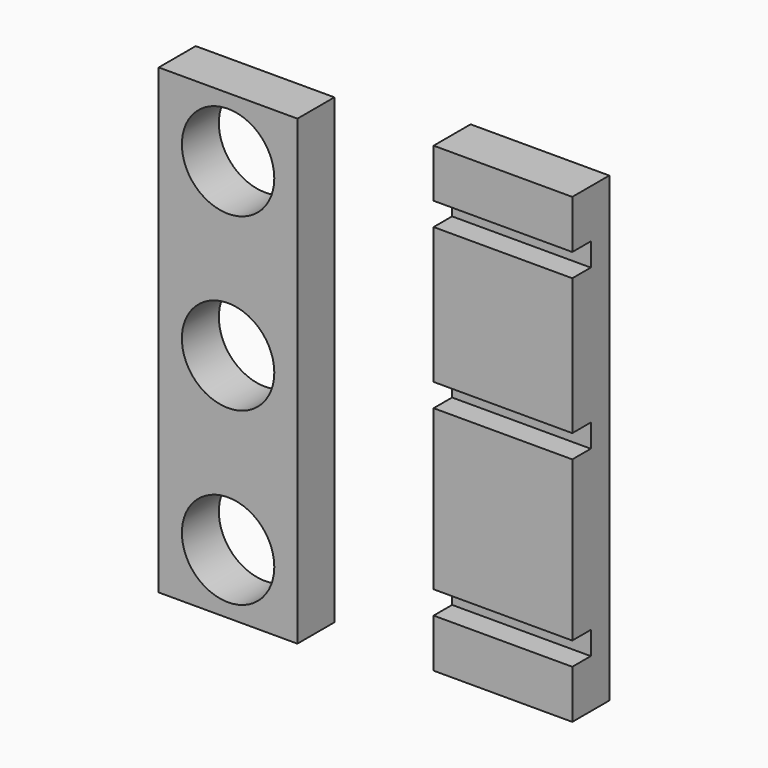
from build123d import *

# Parameters (mm, degrees)
F0_W     = 7.62
F0_H     = 25.4
F0_R     = 2.54
F1_DEPTH = 2.54
F2_W     = 7.62
F2_H     = 2.667
F2_H_2   = 8.128
F2_H_3   = 1.27
F3_DEPTH = 2.54
F4_W     = 7.62
F4_H     = 1.27
F5_DEPTH = 1.27
F6_DEPTH = 1.27
F7_DEPTH = 1.27


with BuildPart() as f1:
    # F0 (on Front) → F1 (new body)
    with BuildSketch(Plane.XZ):
        with Locations((-37.619725, 35.832207)):
            Rectangle(F0_W, F0_H)
        with Locations((-37.619725, 35.832207)):
            Circle(F0_R, mode=Mode.SUBTRACT)
        with Locations((-37.619725, 26.434207)):
            Circle(F0_R, mode=Mode.SUBTRACT)
        with Locations((-37.619725, 45.230207)):
            Circle(F0_R, mode=Mode.SUBTRACT)
    extrude(amount=F1_DEPTH)


with BuildPart() as f3:
    # F2 (on Front) → F3 (new body)
    with BuildSketch(Plane.XZ):
        with Locations((-22.514881, 48.326226)):
            Rectangle(F2_W, F2_H)
        with Locations((-22.514881, 41.658726)):
            Rectangle(F2_W, F2_H_2)
        with Locations((-22.514881, 46.357726)):
            Rectangle(F2_W, F2_H_3)
        with Locations((-22.514881, 36.959726)):
            Rectangle(F2_W, F2_H_3)
        with Locations((-22.514881, 32.260726)):
            Rectangle(F2_W, F2_H_2)
        with Locations((-22.514881, 27.561726)):
            Rectangle(F2_W, F2_H_3)
        with Locations((-22.514881, 25.593226)):
            Rectangle(F2_W, F2_H)
    extrude(amount=F3_DEPTH)

    # F4 (on face) → F5 (cut)
    with BuildSketch(Plane.XZ.offset(2.54)):
        with Locations((-22.514881, 46.357726)):
            Rectangle(F4_W, F4_H)
    extrude(amount=-F5_DEPTH, mode=Mode.SUBTRACT)

    # F4 (on face) → F6 (cut)
    with BuildSketch(Plane.XZ.offset(2.54)):
        with Locations((-22.514881, 37.594726)):
            Rectangle(F4_W, F4_H)
    extrude(amount=-F6_DEPTH, mode=Mode.SUBTRACT)

    # F4 (on face) → F7 (cut)
    with BuildSketch(Plane.XZ.offset(2.54)):
        with Locations((-22.514881, 27.561726)):
            Rectangle(F4_W, F4_H)
    extrude(amount=-F7_DEPTH, mode=Mode.SUBTRACT)


solid = Compound([f1.part, f3.part])
